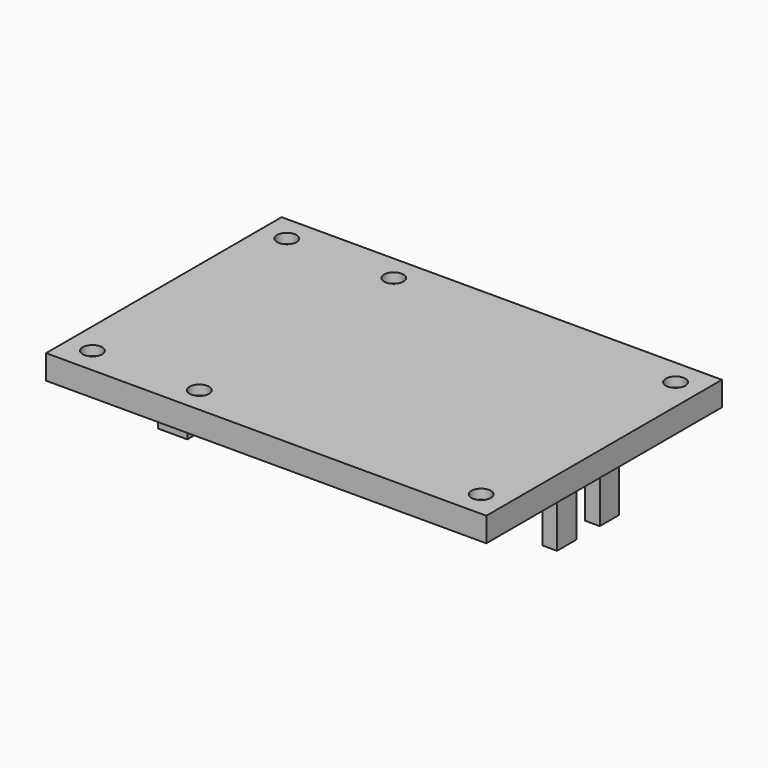
from build123d import *

# Parameters (mm, degrees)
SKETCH015_W             = 90
SKETCH015_H             = 60
SKETCH015_R             = 2
PAD009_DEPTH            = 2
SKETCH016_W             = 90.6
SKETCH016_H             = 60.6
SKETCH016_W_2           = 88.6
SKETCH016_H_2           = 58.6
PAD010_DEPTH            = 5
SKETCH017_W             = 6
SKETCH017_H             = 26.666667
PAD011_DEPTH            = 22.4
PAD014_START            = -3
PAD014_DEPTH            = 5
PAD015_START            = 3
PAD015_DEPTH            = 5
BODY004_PLACEMENT_ANGLE = 180


with BuildPart() as part:
    # Sketch015 → Pad009 (new body)
    with BuildSketch(Plane.XY):
        Rectangle(SKETCH015_W, SKETCH015_H)
        with Locations((-40, 25)):
            Circle(SKETCH015_R, mode=Mode.SUBTRACT)
        with Locations((-18, 25)):
            Circle(SKETCH015_R, mode=Mode.SUBTRACT)
        with Locations((40, 25)):
            Circle(SKETCH015_R, mode=Mode.SUBTRACT)
        with Locations((40, -25)):
            Circle(SKETCH015_R, mode=Mode.SUBTRACT)
        with Locations((-18, -25)):
            Circle(SKETCH015_R, mode=Mode.SUBTRACT)
        with Locations((-40, -25)):
            Circle(SKETCH015_R, mode=Mode.SUBTRACT)
    extrude(amount=PAD009_DEPTH)

    # Sketch016 → Pad010 (join)
    with BuildSketch(Plane.XY):
        Rectangle(SKETCH016_W, SKETCH016_H)
        Rectangle(SKETCH016_W_2, SKETCH016_H_2, mode=Mode.SUBTRACT)
    extrude(amount=PAD010_DEPTH)

    # Sketch017 → Pad011 (join)
    with BuildSketch(Plane.XY):
        with Locations((-38.7, -7.366666)):
            Rectangle(SKETCH017_W, SKETCH017_H)
    extrude(amount=PAD011_DEPTH)

    # Sketch020 → Pad014 (join)
    with BuildSketch(Plane.XZ.offset(PAD014_START)):
        Polygon((36, 0), (42, 0), (42, 16.5), (39, 16.5), (39, 5), align=None)
    extrude(amount=-PAD014_DEPTH)

    # Sketch020 → Pad015 (join)
    with BuildSketch(Plane.XZ.offset(PAD015_START)):
        Polygon((36, 0), (42, 0), (42, 16.5), (39, 16.5), (39, 5), align=None)
    extrude(amount=PAD015_DEPTH)


with BuildPart() as part_1:
    # Body004 placement: moved
    add(part.part.moved(Location((0, 0, 147))).rotate(Axis((0, 0, 147), (1, 0, 0)), BODY004_PLACEMENT_ANGLE))


solid = part_1.part
